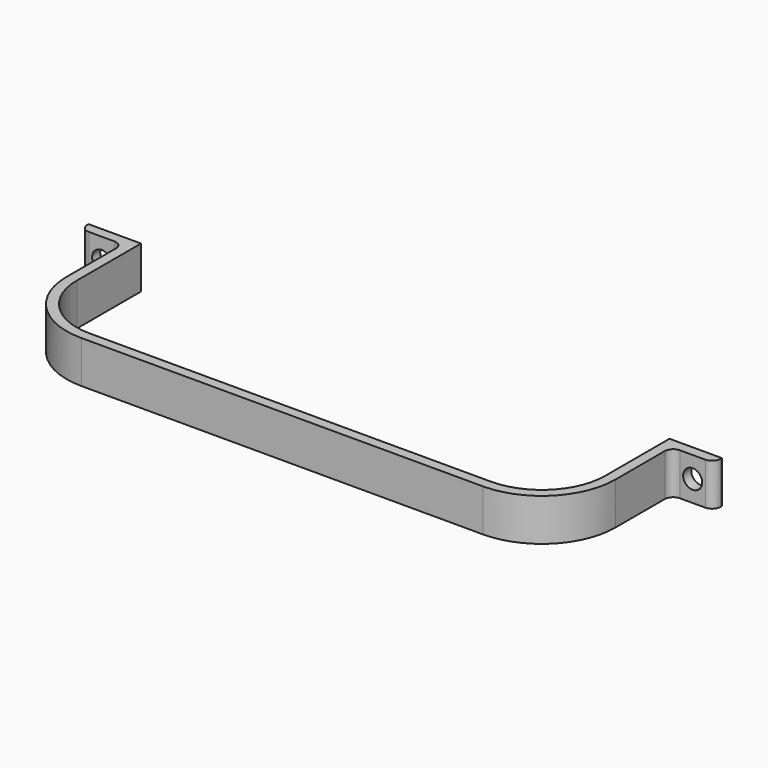
from build123d import *

# Parameters (mm, degrees)
F1_DEPTH = 5
F3_D     = 4.4958
F4_R     = 2


with BuildPart() as f1:
    # F0 (on Top) → F1 (new body, symmetric)
    with BuildSketch(Plane.XY):
        with BuildLine():
            Line((0, 2.4), (0, 0))
            Line((0, 0), (47.5, 0))
            ThreePointArc((47.5, 0), (59.8036579926, 5.0963420074), (64.9, 17.4))
            Line((64.9, 17.4), (64.9, 34))
            Line((64.9, 34), (74.9, 34))
            Line((74.9, 34), (74.9, 36.4))
            Line((74.9, 36.4), (62.5, 36.4))
            Line((62.5, 36.4), (62.5, 17.4))
            ThreePointArc((62.5, 17.4), (58.1066017178, 6.7933982822), (47.5, 2.4))
            Line((47.5, 2.4), (0, 2.4))
        make_face()
    extrude(amount=F1_DEPTH, both=True)

    # F3 (through all)
    with Locations(Plane.XZ.offset(-34)):
        with Locations((69.9, 0)):
            Hole(F3_D / 2)

    # F4
    f4_edges = [f1.edges().sort_by_distance(p)[0] for p in [
        (64.9, 34, 0),
        (74.9, 34, 0),
    ]]
    fillet(f4_edges, radius=F4_R)

    # F5: F1 across face


with BuildPart() as f1_1:
    add(f1.part)
    add(f1.part.mirror(Plane(origin=(0, 1.2, 0), x_dir=(0, -1, 0), z_dir=(-1, 0, 0))))


solid = f1_1.part
